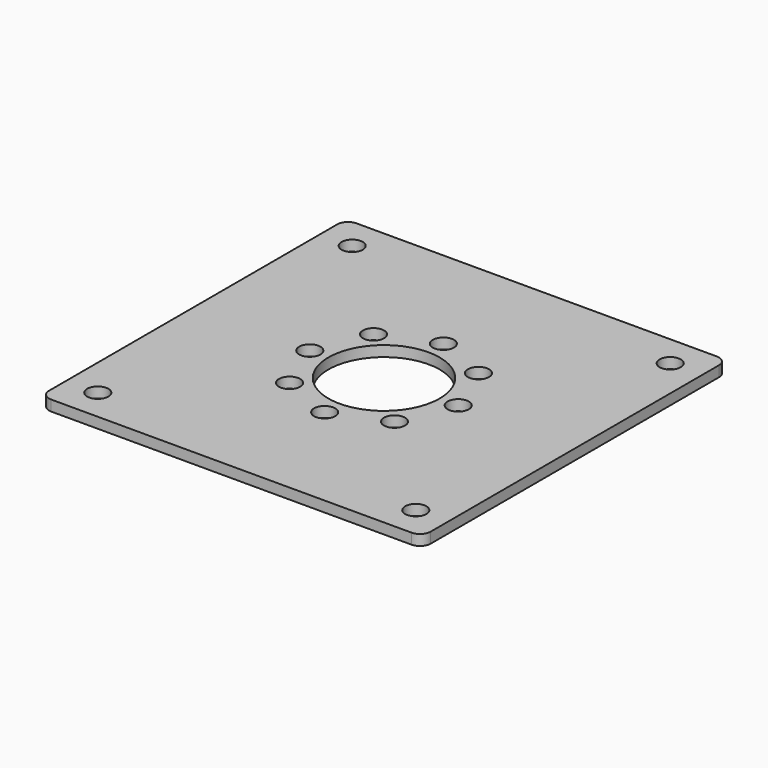
from build123d import *

# Parameters (mm, degrees)
F0_W     = 36
F0_H     = 36
F0_R     = 1
F0_R_2   = 5.25
F1_DEPTH = 1
F2_R     = 1


with BuildPart() as f1:
    # F0 (on Top) → F1 (new body)
    with BuildSketch(Plane.XY):
        Rectangle(F0_W, F0_H)
        with Locations((-15, -15)):
            Circle(F0_R, mode=Mode.SUBTRACT)
        with Locations((-4.949747, -4.949747)):
            Circle(F0_R, mode=Mode.SUBTRACT)
        with Locations((15, -15)):
            Circle(F0_R, mode=Mode.SUBTRACT)
        with Locations((0, -7)):
            Circle(F0_R, mode=Mode.SUBTRACT)
        with Locations((4.949747, -4.949747)):
            Circle(F0_R, mode=Mode.SUBTRACT)
        with Locations((-7, 0)):
            Circle(F0_R, mode=Mode.SUBTRACT)
        with Locations((-4.949747, 4.949747)):
            Circle(F0_R, mode=Mode.SUBTRACT)
        with Locations((-15, 15)):
            Circle(F0_R, mode=Mode.SUBTRACT)
        Circle(F0_R_2, mode=Mode.SUBTRACT)
        with Locations((7, 0)):
            Circle(F0_R, mode=Mode.SUBTRACT)
        with Locations((0, 7)):
            Circle(F0_R, mode=Mode.SUBTRACT)
        with Locations((4.949747, 4.949747)):
            Circle(F0_R, mode=Mode.SUBTRACT)
        with Locations((15, 15)):
            Circle(F0_R, mode=Mode.SUBTRACT)
    extrude(amount=F1_DEPTH)

    # F2
    f2_edges = [f1.edges().sort_by_distance(p)[0] for p in [
        (-18, 18, 0.5),
        (18, 18, 0.5),
        (-18, -18, 0.5),
        (18, -18, 0.5),
    ]]
    fillet(f2_edges, radius=F2_R)


solid = f1.part
